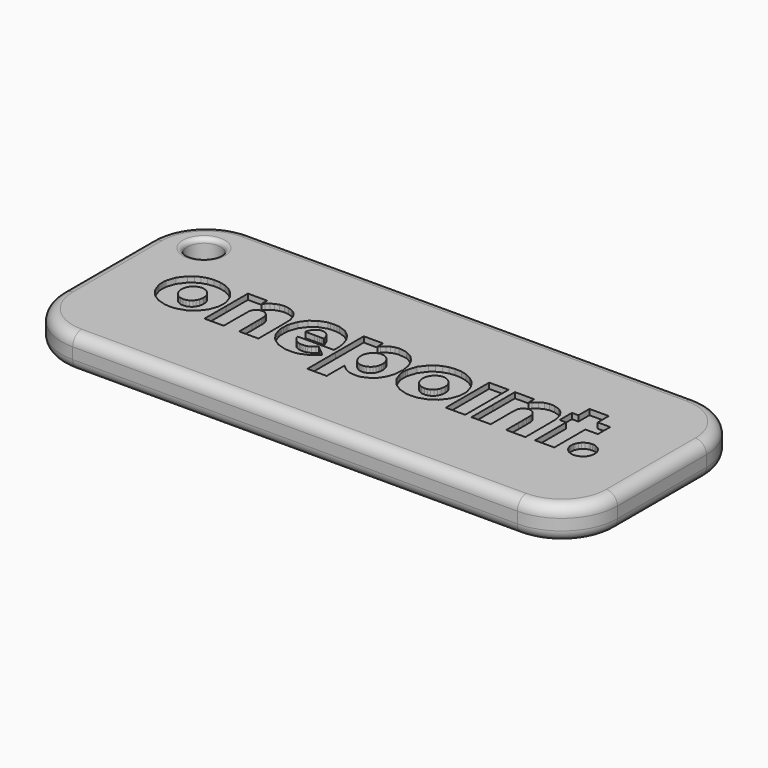
from build123d import *

# Parameters (mm, degrees)
F0_W     = 50
F0_H     = 20
F2_DEPTH = 3
F3_R     = 5
F4_R     = 1
F5_DEPTH = 0.5
F6_R     = 1.5
F7_DEPTH = 3.001
F8_R     = 0.4


with BuildPart() as f2:
    # F0 (on Top) → F2 (new body)
    with BuildSketch(Plane.XY):
        Rectangle(F0_W, F0_H)
    extrude(amount=-F2_DEPTH)

    # F3
    f3_edges = [f2.edges().sort_by_distance(p)[0] for p in [
        (25, -10, -1.5),
        (25, 10, -1.5),
        (-25, 10, -1.5),
        (-25, -10, -1.5),
    ]]
    fillet(f3_edges, radius=F3_R)

    # F4
    f4_edges = [f2.edges().sort_by_distance(p)[0] for p in [
        (0, 10, 0),
        (25, 0, -3),
    ]]
    fillet(f4_edges, radius=F4_R)

    # F1 (on Top) → F5 (cut)
    with BuildSketch(Plane.XY):
        Polygon((-18.5535, -2.18297), (-17.776083, -2.419017), (-17.776083, -2.419279), (-17.293444, -2.443394), (-16.801586, -2.407723), (-16.029602, -2.159247), (-15.388694, -1.712358), (-14.915522, -1.100108), (-14.646285, -0.355554), (-14.618608, -0.146194), (-14.606066, 0.097528), (-14.610802, 0.341207), (-14.634459, 0.550349), (-14.889497, 1.283958), (-15.368112, 1.914522), (-15.805085, 2.253527), (-16.301203, 2.493673), (-16.846772, 2.630427), (-17.43185, 2.659731), (-17.94027, 2.593273), (-18.412024, 2.446098), (-18.840952, 2.219731), (-19.220198, 1.914522), (-19.719159, 1.258229), (-19.977037, 0.481449), (-19.996202, 0.266202), (-19.999987, 0.021608), (-19.986975, -0.216446), (-19.954326, -0.412767), (-19.673738, -1.15187), (-19.196305, -1.751168), align=None)
        Polygon((-16.812466, -0.858741), (-17.04243, -0.951538), (-17.042666, -0.951538), (-17.299126, -0.977266), (-17.547065, -0.951538), (-17.798794, -0.844089), (-18.012902, -0.669266), (-18.177333, -0.440458), (-18.280718, -0.171966), (-18.306978, -0.045156), (-18.315495, 0.111962), (-18.306978, 0.273048), (-18.280718, 0.41268), (-18.209978, 0.61685), (-18.091684, 0.806848), (-17.939088, 0.96885), (-17.764728, 1.089076), (-17.537131, 1.168049), (-17.317816, 1.203763), (-17.233353, 1.195304), (-17.122869, 1.16927), (-16.857417, 1.073944), (-16.632899, 0.912814), (-16.45546, 0.693948), (-16.331724, 0.424236), (-16.29198, 0.073152), (-16.354435, -0.286698), (-16.468468, -0.527542), (-16.621068, -0.717976), align=None, mode=Mode.SUBTRACT)
        Polygon((-14.256395, 2.522062), (-14.256395, 0.080216), (-14.256866, 0.080216), (-14.256866, -2.361804), (-12.525779, -2.361804), (-12.525779, -0.917175), (-12.522203, -0.44665), (-12.51915, -0.090071), (-12.516054, 0.170178), (-12.51226, 0.351149), (-12.507333, 0.470372), (-12.500922, 0.545116), (-12.492157, 0.592648), (-12.480601, 0.630499), (-12.359678, 0.837766), (-12.192661, 0.988691), (-11.98897, 1.075557), (-11.758287, 1.089076), (-11.562402, 1.046253), (-11.403147, 0.951581), (-11.277994, 0.805365), (-11.185022, 0.607562), (-11.173684, 0.566222), (-11.164919, 0.515811), (-11.158553, 0.439367), (-11.15332, 0.319708), (-11.149526, 0.13913), (-11.146212, -0.119419), (-11.142679, -0.473338), (-11.138668, -0.940156), (-11.138668, -2.361804), (-9.407537, -2.361804), (-9.407537, -0.596136), (-9.411374, -0.075201), (-9.414427, 0.336454), (-9.417479, 0.653001), (-9.421273, 0.888394), (-9.426244, 1.057591), (-9.432611, 1.174241), (-9.441376, 1.252517), (-9.452714, 1.306939), (-9.574117, 1.705817), (-9.752516, 2.02921), (-9.993098, 2.284052), (-10.301142, 2.476143), (-10.669974, 2.598724), (-11.066497, 2.638232), (-11.459008, 2.593971), (-11.814584, 2.464805), (-12.086913, 2.308603), (-12.341929, 2.07491), (-12.525299, 1.891585), (-12.525299, 2.522062), align=None)
        Polygon((-7.757603, -2.19832), (-6.942099, -2.441998), (-6.940704, -2.441998), (-6.868577, -2.450066), (-6.748831, -2.456171), (-6.599039, -2.457872), (-6.436296, -2.45338), (-6.215773, -2.451025), (-6.063888, -2.443219), (-5.946322, -2.429221), (-5.828756, -2.407723), (-5.067849, -2.102296), (-4.452983, -1.582277), (-4.361189, -1.478883), (-4.842616, -1.077607), (-5.324304, -0.676374), (-5.461799, -0.791106), (-5.719912, -0.981583), (-5.977807, -1.112144), (-6.140811, -1.14812), (-6.334778, -1.168005), (-6.530881, -1.168485), (-6.700078, -1.14642), (-6.912054, -1.071938), (-7.09708, -0.955767), (-7.249881, -0.802967), (-7.364874, -0.619074), (-7.41245, -0.515681), (-7.433948, -0.44713), (-7.446071, -0.401211), (-4.201455, -0.401211), (-4.178779, -0.25216), (-4.178779, -0.063384), (-4.192036, 0.190761), (-4.216194, 0.45572), (-4.247853, 0.676418), (-4.490137, 1.385956), (-4.878374, 1.949059), (-5.41165, 2.360234), (-6.082116, 2.590918), (-6.317771, 2.623318), (-6.608066, 2.635398), (-6.896399, 2.628028), (-7.125469, 2.602474), (-7.810586, 2.364464), (-8.375129, 1.93746), (-8.80946, 1.354296), (-9.062863, 0.641924), (-9.084187, 0.531685), (-9.098098, 0.420006), (-9.105904, 0.276145), (-9.108302, 0.06866), (-9.106165, -0.133635), (-9.098578, -0.277976), (-9.084623, -0.392184), (-9.062863, -0.504604), (-8.826772, -1.177904), (-8.409666, -1.731327), align=None)
        Polygon((-5.81877, 0.601195), (-5.806952, 0.527367), (-5.807214, 0.527367), (-5.812185, 0.519823), (-5.831547, 0.514154), (-5.872494, 0.510099), (-5.942092, 0.507526), (-6.046837, 0.505869), (-6.194274, 0.504909), (-6.390857, 0.504648), (-6.644042, 0.50443), (-7.481044, 0.50443), (-7.446551, 0.641924), (-7.33932, 0.912814), (-7.190052, 1.122217), (-7.000054, 1.269305), (-6.770155, 1.352814), (-6.515269, 1.354296), (-6.27848, 1.276893), (-6.078584, 1.128802), (-5.933065, 0.917044), (-5.889501, 0.817663), (-5.848859, 0.705068), align=None, mode=Mode.SUBTRACT)
        Polygon((-3.846621, 2.533618), (-3.846621, -0.630717), (-3.846839, -0.630717), (-3.846839, -3.806346), (-2.115533, -3.806346), (-2.115533, -1.78854), (-1.978039, -1.914653), (-1.781195, -2.089999), (-1.58108, -2.225531), (-1.370238, -2.328924), (-1.140993, -2.407723), (-1.035027, -2.434193), (-0.936343, -2.447667), (-0.814067, -2.452639), (-0.636629, -2.453554), (-0.46608, -2.452639), (-0.345854, -2.447667), (-0.245077, -2.434193), (-0.132221, -2.407723), (0.429444, -2.159771), (0.896655, -1.758494), (1.247783, -1.22596), (1.461459, -0.584798), (1.522902, 0.219324), (1.404159, 0.997238), (1.081943, 1.695394), (0.590094, 2.221345), (-0.030702, 2.545261), (-0.73976, 2.63675), (-1.086135, 2.591093), (-1.394919, 2.484952), (-1.679764, 2.314316), (-1.954883, 2.07491), (-2.115533, 1.903141), (-2.115533, 2.533618), align=None)
        Polygon((-0.804125, -0.941333), (-1.003324, -0.997413), (-1.185473, -1.014463), (-1.358943, -0.997413), (-1.612521, -0.898031), (-1.830428, -0.727918), (-1.998883, -0.49754), (-2.103934, -0.217841), (-2.129444, -0.078951), (-2.137991, 0.091859), (-2.129444, 0.262626), (-2.103934, 0.401298), (-1.9882, 0.689195), (-1.806095, 0.92437), (-1.572053, 1.092826), (-1.301469, 1.180826), (-0.943015, 1.162423), (-0.625247, 1.016207), (-0.376117, 0.760188), (-0.223796, 0.41268), (-0.184986, 0.180819), (-0.188082, -0.058674), (-0.232038, -0.291887), (-0.315546, -0.504604), (-0.444276, -0.682959), (-0.612252, -0.832533), align=None, mode=Mode.SUBTRACT)
        Polygon((7.43451, 2.533618), (7.43451, 0.091598), (7.43451, -2.350161), (9.177197, -2.350161), (9.177197, 2.533618), align=None)
        Polygon((3.148983, -2.18297), (3.926417, -2.419017), (4.409065, -2.443394), (4.900696, -2.407723), (5.67268, -2.159247), (6.313579, -1.712358), (6.786939, -1.100108), (7.056215, -0.355554), (7.083906, -0.146194), (7.096465, 0.097528), (7.091712, 0.341207), (7.068033, 0.550349), (6.812754, 1.283958), (6.334162, 1.914522), (5.897171, 2.253527), (5.401267, 2.493673), (4.855737, 2.630427), (4.270611, 2.659731), (3.762235, 2.593273), (3.290489, 2.446098), (2.861566, 2.219731), (2.482267, 1.914522), (1.983354, 1.258229), (1.725459, 0.481449), (1.706315, 0.266202), (1.70226, 0.021608), (1.715517, -0.216446), (1.748179, -0.412767), (2.028749, -1.15187), (2.506208, -1.751168), align=None)
        Polygon((4.890012, -0.858741), (4.66007, -0.951538), (4.659808, -0.951538), (4.403396, -0.977266), (4.155444, -0.951538), (3.903698, -0.844089), (3.689628, -0.669266), (3.524923, -0.440458), (3.421791, -0.171966), (3.395496, -0.045156), (3.387036, 0.111962), (3.395496, 0.273048), (3.421791, 0.41268), (3.492523, 0.61685), (3.61083, 0.806848), (3.763369, 0.96885), (3.937493, 1.089076), (4.165343, 1.168049), (4.384645, 1.203763), (4.468895, 1.195304), (4.579614, 1.16927), (4.844835, 1.073944), (5.069588, 0.912814), (5.246809, 0.693948), (5.370567, 0.424236), (5.410511, 0.073152), (5.348022, -0.286698), (5.234032, -0.527542), (5.081406, -0.717976), align=None, mode=Mode.SUBTRACT)
        Polygon((9.750461, 2.533618), (9.750461, 0.091598), (9.749458, 0.091598), (9.749458, -2.350161), (11.480589, -2.350161), (11.480589, -0.986031), (11.480589, -0.502467), (11.482028, -0.132196), (11.485342, 0.142967), (11.49197, 0.341207), (11.502872, 0.480053), (11.519138, 0.577996), (11.541857, 0.652565), (11.572165, 0.722118), (11.706781, 0.908541), (11.893465, 1.043157), (12.147042, 1.106824), (12.393381, 1.077694), (12.60745, 0.962745), (12.764568, 0.767994), (12.798626, 0.703193), (12.824398, 0.633116), (12.842887, 0.538749), (12.855185, 0.401298), (12.862511, 0.201358), (12.866523, -0.079693), (12.867962, -0.461564), (12.86818, -0.963094), (12.86818, -2.350161), (14.599485, -2.350161), (14.599485, -0.653655), (14.59761, 0.037873), (14.592377, 0.603332), (14.585312, 0.999113), (14.576809, 1.180826), (14.428195, 1.735426), (14.145487, 2.169582), (13.740243, 2.470474), (13.224191, 2.625194), (12.787026, 2.642462), (12.384093, 2.555204), (12.01151, 2.362589), (11.664874, 2.063573), (11.481548, 1.880159), (11.481548, 2.533618), align=None)
        Polygon((15.436575, 1.180826), (15.436575, -0.573242), (15.436575, -2.315886), (17.167662, -2.315886), (17.167662, 1.180826), (18.291471, 1.180826), (18.291471, 2.567981), (17.167662, 2.567981), (17.167662, 3.806346), (15.436575, 3.806346), (15.436575, 2.567981), (14.851929, 2.567981), (14.851929, 1.180826), align=None)
        Polygon((18.401187, -2.209658), (18.669766, -2.327442), (18.670202, -2.327442), (18.789686, -2.346672), (18.940612, -2.353039), (19.09398, -2.346672), (19.220485, -2.327442), (19.530883, -2.185543), (19.777876, -1.950367), (19.940925, -1.648516), (20.000013, -1.307113), (19.947771, -0.971859), (19.798023, -0.680604), (19.559795, -0.447566), (19.243422, -0.286698), (19.111466, -0.260664), (18.945104, -0.25216), (18.779003, -0.260664), (18.647308, -0.286698), (18.408775, -0.393667), (18.211451, -0.541714), (18.057211, -0.728398), (17.948192, -0.951538), (17.912914, -1.074772), (17.894468, -1.223823), (17.890892, -1.377103), (17.901532, -1.513377), (18.002091, -1.785444), (18.173861, -2.023497), align=None)
    extrude(amount=-F5_DEPTH, mode=Mode.SUBTRACT)

    # F6 (on face) → F7 (cut, through all)
    with BuildSketch(Plane.XY):
        with Locations((-21, 6)):
            Circle(F6_R)
    extrude(amount=-F7_DEPTH, mode=Mode.SUBTRACT)

    # F8
    f8_edges = [f2.edges().sort_by_distance(p)[0] for p in [
        (-22.5, 6, 0),
        (-22.5, 6, -3),
    ]]
    fillet(f8_edges, radius=F8_R)


solid = f2.part
